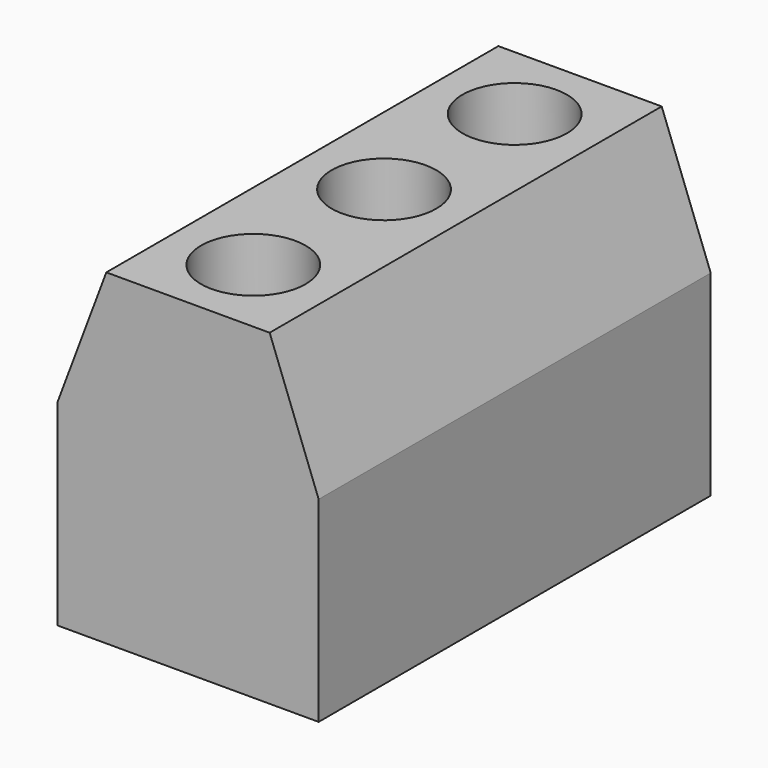
from build123d import *

# Parameters (mm, degrees)
SKETCH001_W     = 8
SKETCH001_H     = 15
PAD001_DEPTH    = 10
POCKET_DEPTH    = 16
SKETCH003_R     = 1.6
POCKET001_DEPTH = 5
SKETCH004_W     = 4
SKETCH004_H     = 5
POCKET002_DEPTH = 6


with BuildPart() as part:
    # Sketch001 (on Face1 of CopyPad) → Pad001 (new body)
    with BuildSketch(Plane.XY.offset(1.6)):
        with Locations((-12, 0)):
            Rectangle(SKETCH001_W, SKETCH001_H)
    extrude(amount=PAD001_DEPTH)

    # Sketch002 (on Face1 of Pad001) → Pocket (cut)
    with BuildSketch(Plane(origin=(0, -7.5, 1.6), x_dir=(1, 0, 0), z_dir=(0, -1, 0))):
        Polygon((-16, 10), (-16, 6), (-14.5, 10), align=None)
        Polygon((-8, 10), (-9.5, 10), (-8, 6), align=None)
    extrude(amount=-POCKET_DEPTH, mode=Mode.SUBTRACT)

    # Sketch003 (on Face5 of Pocket) → Pocket001 (cut)
    with BuildSketch(Plane.XY.offset(11.6)):
        with Locations((-12, 5)):
            Circle(SKETCH003_R)
        with Locations((-12, 0)):
            Circle(SKETCH003_R)
        with Locations((-12, -5)):
            Circle(SKETCH003_R)
    extrude(amount=-POCKET001_DEPTH, mode=Mode.SUBTRACT)

    # Sketch004 (on Face7 of Pocket001) → Pocket002 (cut)
    with BuildSketch(Plane(origin=(-16, 0, 1.6), x_dir=(0, -1, 0), z_dir=(-1, 0, 0))):
        with Locations((-5, 3)):
            Rectangle(SKETCH004_W, SKETCH004_H)
        with Locations((0, 3)):
            Rectangle(SKETCH004_W, SKETCH004_H)
        with Locations((5, 3)):
            Rectangle(SKETCH004_W, SKETCH004_H)
    extrude(amount=-POCKET002_DEPTH, mode=Mode.SUBTRACT)


solid = part.part
